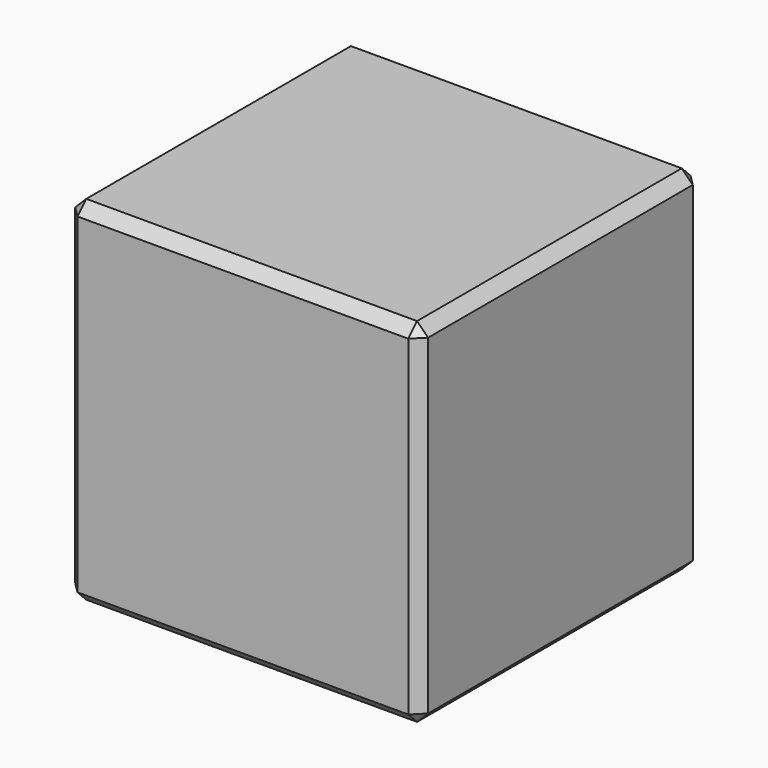
from build123d import *

# Parameters (mm, degrees)
F0_W     = 16
F0_H     = 16
F1_DEPTH = 8
F2_SIZE  = 0.5


with BuildPart() as f1:
    # F0 (on Top) → F1 (new body, symmetric)
    with BuildSketch(Plane.XY):
        Rectangle(F0_W, F0_H)
    extrude(amount=F1_DEPTH, both=True)

    # F2
    f2_edges = [f1.edges().sort_by_distance(p)[0] for p in [
        (0, 8, 8),
        (8, 8, 0),
        (0, 8, -8),
        (-8, 8, 0),
        (-8, 0, -8),
        (-8, 0, 8),
        (0, -8, 8),
        (-8, -8, 0),
        (8, -8, 0),
        (8, 0, -8),
        (8, 0, 8),
        (0, -8, -8),
    ]]
    chamfer(f2_edges, length=F2_SIZE)


solid = f1.part
